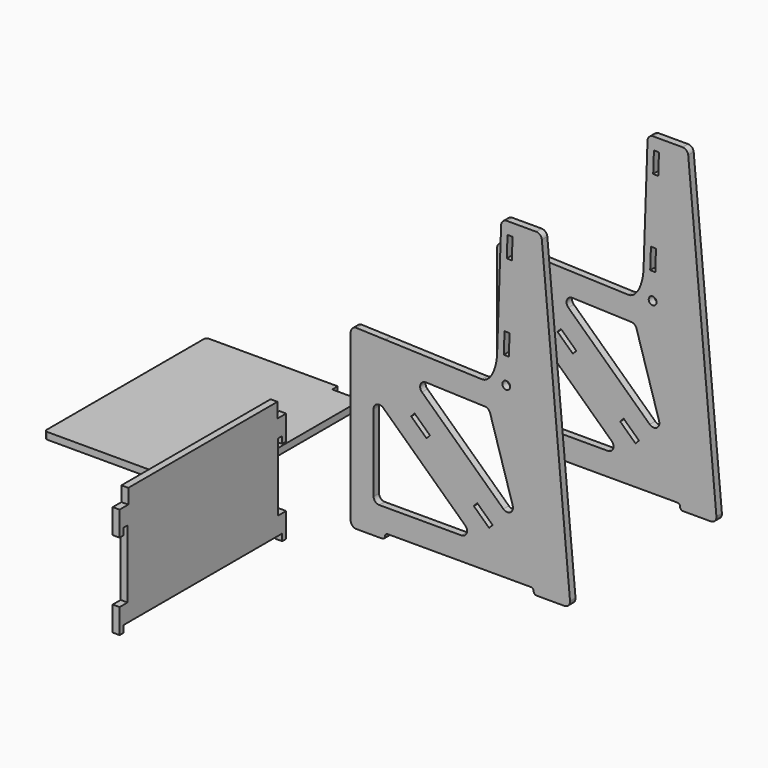
from build123d import *

# Parameters (mm, degrees)
F0_R     = 6.8977813742
F1_DEPTH = 12
F5_DEPTH = 12
F6_DEPTH = 12


with BuildPart() as f1:
    # F0 (on Front) → F1 (new body)
    with BuildSketch(Plane.XZ):
        with BuildLine():
            ThreePointArc((383.5423433152, 10), (383.53198729, 10.4549870954), (383.5009406638, 10.9090318192))
            Line((383.5009406638, 10.9090318192), (334.2091413097, 550.9090318192))
            ThreePointArc((334.2091413097, 550.9090318192), (330.9925644968, 557.3854694567), (324.2505439611, 560))
            Line((324.2505439611, 560), (273.036195392, 560))
            ThreePointArc((273.036195392, 560), (266.0896116875, 557.1933980034), (263.0422871219, 550.348994967))
            Line((263.0422871219, 550.348994967), (256.0839338831, 351.0878291893))
            add(Edge.make_bspline(
                [(229.3541883725, 301.9907752559), (254.338959048, 301.1182878383), (256.0839338831, 351.0878291893)],
                knots=[3.1415926536, 3.1415926536, 3.1415926536, 4.7123889804, 4.7123889804, 4.7123889804], degree=2, weights=[1, 0.7071067812, 1]))
            Line((229.3541883725, 301.9907752559), (60.7473323619, 307.8786564094))
            Line((60.7473323619, 307.8786564094), (60, 307.9047538305))
            Line((60, 307.9047538305), (10.348994967, 309.6386051323))
            ThreePointArc((10.348994967, 309.6386051323), (6.5186557932, 309.0191431132), (3.2124410449, 306.9883365204))
            ThreePointArc((3.2124410449, 306.9883365204), (0.8382428118, 303.6524649722), (0, 299.6446968621))
            Line((0, 299.6446968621), (0, 10))
            ThreePointArc((0, 10), (2.9289321881, 2.9289321881), (10, 0))
            Line((10, 0), (55, 0))
            ThreePointArc((55, 0), (58.5355339059, 1.4644660941), (60, 5))
            ThreePointArc((60, 5), (61.4644660941, 8.5355339059), (65, 10))
            Line((65, 10), (315, 10))
            ThreePointArc((315, 10), (318.5355339059, 8.5355339059), (320, 5))
            ThreePointArc((320, 5), (321.4644660941, 1.4644660941), (325, 0))
            Line((325, 0), (373.5423433152, 0))
            ThreePointArc((373.5423433152, 0), (380.613411127, 2.9289321881), (383.5423433152, 10))
        make_face()
        with BuildLine():
            Line((193.5609593351, 50), (50, 50))
            ThreePointArc((50, 50), (42.9289321881, 52.9289321881), (40, 60))
            Line((40, 60), (40, 194.5883993767))
            ThreePointArc((40, 194.5883993767), (46.0247083684, 203.7642947795), (56.8394112888, 201.8837714181))
            Line((56.8394112888, 201.8837714181), (200.4003706239, 67.2953720414))
            ThreePointArc((200.4003706239, 67.2953720414), (202.8602528678, 56.3226178071), (193.5609593351, 50))
        make_face(mode=Mode.SUBTRACT)
        Polygon((132.5399566108, 179.5754966213), (105.6747490683, 204.7616286923), (111.7105295307, 211.1997945189), (138.5757370732, 186.0136624478), align=None, mode=Mode.SUBTRACT)
        Polygon((242.0902269294, 77.1119962998), (215.2250193869, 102.2981283709), (221.2607998493, 108.7362941974), (248.1260073918, 83.5501621263), align=None, mode=Mode.SUBTRACT)
        with BuildLine():
            ThreePointArc((234.5502334795, 261.7849435905), (240.2922009758, 259.7219984566), (243.7667508449, 254.7066782714))
            Line((243.7667508449, 254.7066782714), (283.3774917572, 124.7535128637))
            ThreePointArc((283.3774917572, 124.7535128637), (279.0963065834, 113.3481180622), (266.9725681359, 114.5424978712))
            Line((266.9725681359, 114.5424978712), (124.5253197293, 248.0867932524))
            ThreePointArc((124.5253197293, 248.0867932524), (122.1310329815, 259.221282454), (131.7137259851, 265.376073564))
            Line((131.7137259851, 265.376073564), (234.5502334795, 261.7849435905))
        make_face(mode=Mode.SUBTRACT)
        with Locations((272.037695501, 306.5038916081)):
            Circle(F0_R, mode=Mode.SUBTRACT)
        Polygon((267.7197780422, 352.2699642091), (269.0049520082, 389.0725314141), (277.8245760567, 388.7645433557), (276.5394020906, 351.9619761507), align=None, mode=Mode.SUBTRACT)
        Polygon((272.9547025476, 502.178588262), (274.2398765136, 538.981155467), (283.0595005621, 538.6731674086), (281.774326596, 501.8706002036), align=None, mode=Mode.SUBTRACT)
    extrude(amount=F1_DEPTH)


with BuildPart() as f2_1:
    # F2: copy of F1
    add(f1.part.moved(Location((0, 320, 0))))


with BuildPart() as f5:
    # F3 (on Top) → F5 (new body)
    with BuildSketch(Plane.XY):
        with BuildLine():
            ThreePointArc((-484.3646473624, 283.769295001), (-487.9001812683, 282.304828907), (-489.3646473624, 278.769295001))
            Line((-489.3646473624, 278.769295001), (-489.3646473624, -64.405704999))
            ThreePointArc((-489.3646473624, -64.405704999), (-487.9001812683, -67.9412389049), (-484.3646473624, -69.405704999))
            Line((-484.3646473624, -69.405704999), (-259.3646473624, -69.405704999))
            Line((-259.3646473624, -69.405704999), (-259.3646473624, -57.405704999))
            Line((-259.3646473624, -57.405704999), (-228.0146473624, -57.405704999))
            Line((-228.0146473624, -57.405704999), (-228.0146473624, -69.405704999))
            Line((-228.0146473624, -69.405704999), (-208.8896473624, -69.405704999))
            Line((-208.8896473624, -69.405704999), (-208.8896473624, 283.769295001))
            Line((-208.8896473624, 283.769295001), (-228.0146473624, 283.769295001))
            Line((-228.0146473624, 283.769295001), (-228.0146473624, 271.769295001))
            Line((-228.0146473624, 271.769295001), (-259.3646473624, 271.769295001))
            Line((-259.3646473624, 271.769295001), (-259.3646473624, 283.769295001))
            Line((-259.3646473624, 283.769295001), (-484.3646473624, 283.769295001))
        make_face()
    extrude(amount=F5_DEPTH)


with BuildPart() as f6:
    # F4 (on Right) → F6 (new body)
    with BuildSketch(Plane.YZ):
        Polygon((-523.5722263515, 210.8337572838), (-514.7472263515, 210.8337572838), (-514.7472263515, 92.0087572838), (-532.1597263515, 92.0087572838), (-532.1597263515, 48.8337572838), (-523.5722263515, 48.8337572838), (-523.5722263515, 60.8337572838), (-176.7472263515, 60.8337572838), (-176.7472263515, 48.8337572838), (-168.1597263515, 48.8337572838), (-168.1597263515, 92.0087572838), (-185.5722263515, 92.0087572838), (-185.5722263515, 210.8337572838), (-176.7472263515, 210.8337572838), (-176.7472263515, 198.8337572838), (-168.1597263515, 198.8337572838), (-168.1597263515, 242.0087572838), (-187.1597263515, 242.0087572838), (-187.1597263515, 267.8337572838), (-513.1597263515, 267.8337572838), (-513.1597263515, 242.0087572838), (-532.1597263515, 242.0087572838), (-532.1597263515, 198.8337572838), (-523.5722263515, 198.8337572838), align=None)
    extrude(amount=F6_DEPTH)


solid = Compound([f1.part, f2_1.part, f5.part, f6.part])
